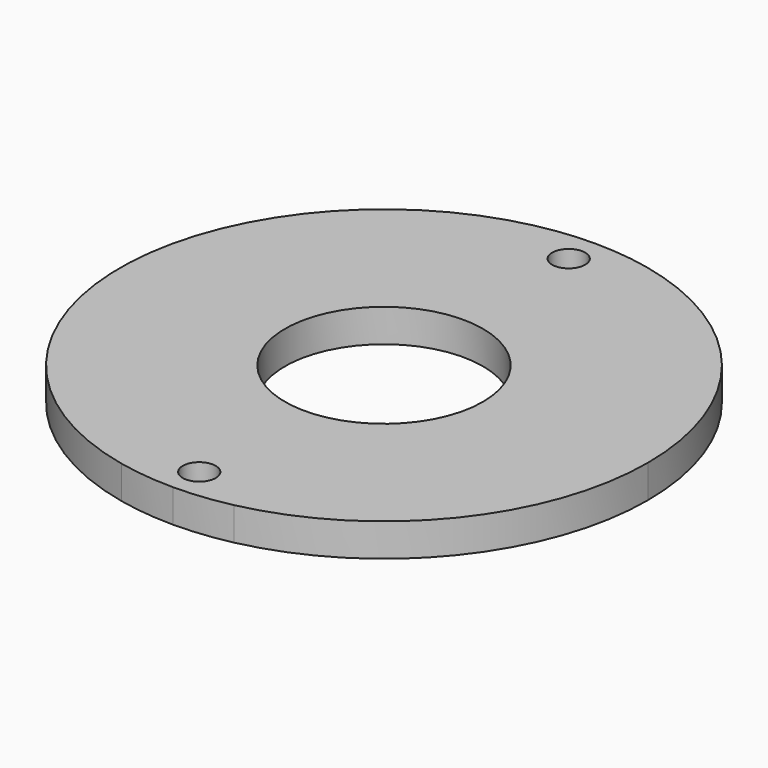
from build123d import *

# Parameters (mm, degrees)
F1_DEPTH = 5
F2_R     = 2.5
F2_R_2   = 1.5
F3_DEPTH = 2
F4_R     = 15
F5_DEPTH = 25
F6_DEPTH = 25


with BuildPart() as f1:
    # F0 (on Top) → F1 (new body)
    with BuildSketch(Plane.XY):
        with BuildLine():
            Line((-8.5, 0), (-8.5, 39.0864426624))
            ThreePointArc((-8.5, 39.0864426624), (-40, 0), (-8.5, -39.0864426624))
            Line((-8.5, -39.0864426624), (-8.5, 0))
        make_face()
        with BuildLine():
            ThreePointArc((0, -40), (4.2744761962, -39.7709548948), (8.5, -39.0864426624))
            Line((8.5, -39.0864426624), (8.5, 0))
            Line((8.5, 0), (0, 0))
            Line((0, 0), (-8.5, 0))
            Line((-8.5, 0), (-8.5, -39.0864426624))
            ThreePointArc((-8.5, -39.0864426624), (-4.2744761962, -39.7709548948), (0, -40))
        make_face()
        with BuildLine():
            ThreePointArc((2.5, -35), (1.767766953, -36.767766953), (0, -37.5))
            ThreePointArc((0, -37.5), (-1.767766953, -33.232233047), (2.5, -35))
        make_face(mode=Mode.SUBTRACT)
        with BuildLine():
            Line((8.5, 0), (8.5, 39.0864426624))
            ThreePointArc((8.5, 39.0864426624), (4.2744761962, 39.7709548948), (0, 40))
            ThreePointArc((0, 40), (-4.2744761962, 39.7709548948), (-8.5, 39.0864426624))
            Line((-8.5, 39.0864426624), (-8.5, 0))
            Line((-8.5, 0), (0, 0))
            Line((0, 0), (8.5, 0))
        make_face()
        with BuildLine():
            ThreePointArc((2.5, 35), (-1.767766953, 33.232233047), (0, 37.5))
            ThreePointArc((0, 37.5), (1.767766953, 36.767766953), (2.5, 35))
        make_face(mode=Mode.SUBTRACT)
        with BuildLine():
            ThreePointArc((8.5, -39.0864426624), (31.1448230048, -25.099800796), (40, 0))
            ThreePointArc((40, 0), (31.1448230048, 25.099800796), (8.5, 39.0864426624))
            Line((8.5, 39.0864426624), (8.5, 0))
            Line((8.5, 0), (8.5, -39.0864426624))
        make_face()
        with BuildLine():
            ThreePointArc((2.5, 35), (1.767766953, 36.767766953), (0, 37.5))
            ThreePointArc((0, 37.5), (-1.767766953, 33.232233047), (2.5, 35))
        make_face()
        with BuildLine():
            ThreePointArc((1.5, 35), (-1.0606601718, 33.9393398282), (0, 36.5))
            ThreePointArc((0, 36.5), (1.0606601718, 36.0606601718), (1.5, 35))
        make_face(mode=Mode.SUBTRACT)
        with BuildLine():
            ThreePointArc((2.5, -35), (-1.767766953, -33.232233047), (0, -37.5))
            ThreePointArc((0, -37.5), (1.767766953, -36.767766953), (2.5, -35))
        make_face()
        with BuildLine():
            ThreePointArc((1.5, -35), (1.0606601718, -36.0606601718), (0, -36.5))
            ThreePointArc((0, -36.5), (-1.0606601718, -33.9393398282), (1.5, -35))
        make_face(mode=Mode.SUBTRACT)
    extrude(amount=F1_DEPTH)

    # F2 (on face) → F3 (cut)
    with BuildSketch(Plane.XY.offset(5)):
        with Locations((0, 35)):
            Circle(F2_R)
        with Locations((0, 35)):
            Circle(F2_R_2, mode=Mode.SUBTRACT)
        with Locations((0, -35)):
            Circle(F2_R)
        with Locations((0, -35)):
            Circle(F2_R_2, mode=Mode.SUBTRACT)
    extrude(amount=-F3_DEPTH, mode=Mode.SUBTRACT)

    # F4 (on face) → F5 (cut)
    with BuildSketch(Plane.XY.offset(5)):
        Circle(F4_R)
    extrude(amount=-F5_DEPTH, mode=Mode.SUBTRACT)

    # F6 (cut): faces of the model
    f6_faces = [f1.faces().sort_by_distance(p)[0] for p in [
        (-2.4292893219, 35, 3),
        (-2.4292893219, -35, 3),
    ]]
    extrude(f6_faces, amount=-F6_DEPTH, mode=Mode.SUBTRACT)


solid = f1.part
